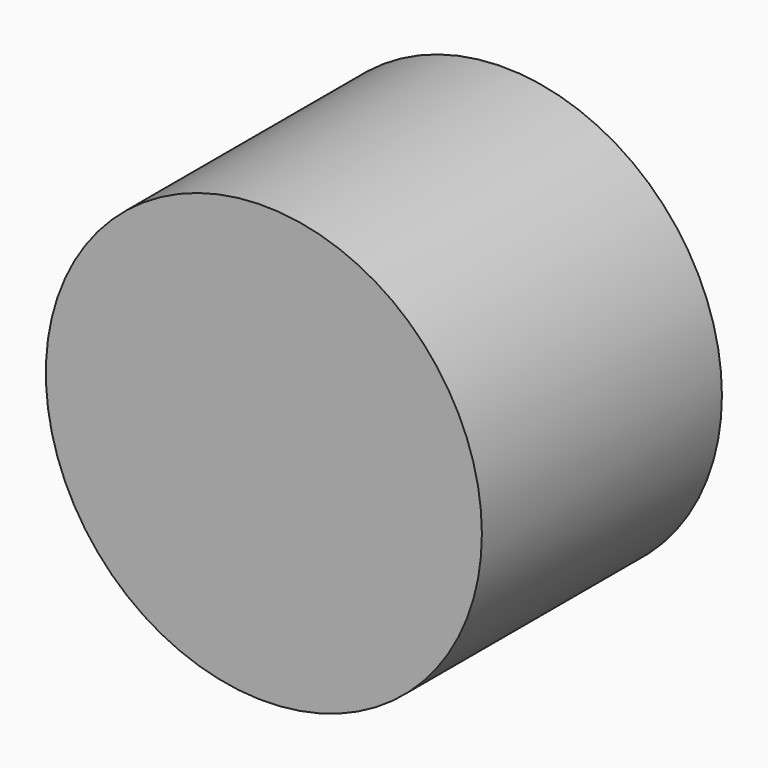
from build123d import *

# Parameters (mm, degrees)
F0_R = 20


with BuildPart() as f2:
    # F2: sweep along a path in F1
    with BuildLine(Plane.YZ) as f2_path:
        Line((0, 0), (27.524736, 0))
    # F0 (on Front) → F2 (sweep)
    with BuildSketch(Plane.XZ):
        Circle(F0_R)
    sweep(path=f2_path.line)


solid = f2.part
